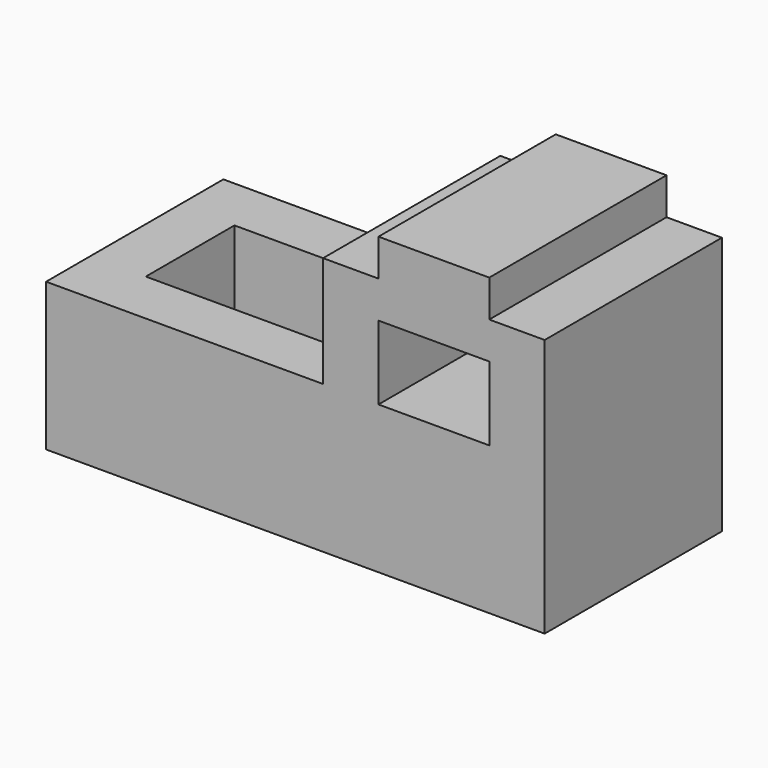
from build123d import *

# Parameters (mm, degrees)
F1_DEPTH = 1219.2
F2_W     = 609.6
F2_H     = 406.4
F3_DEPTH = 1219.201
F4_W     = 1219.2
F4_H     = 609.6
F5_DEPTH = 609.6


with BuildPart() as f1:
    # F0 (on Front) → F1 (new body)
    with BuildSketch(Plane.XZ):
        Polygon((-376.145542, 668.366442), (-376.145542, -144.433558), (2367.054458, -144.433558), (2367.054458, 1277.966442), (2062.254458, 1277.966442), (2062.254458, 1481.166442), (1452.654458, 1481.166442), (1452.654458, 1277.966442), (1147.854458, 1277.966442), (1147.854458, 668.366442), align=None)
    extrude(amount=F1_DEPTH)

    # F2 (on face) → F3 (cut, through all)
    with BuildSketch(Plane.XZ.offset(1219.2)):
        with Locations((1757.454458, 871.566442)):
            Rectangle(F2_W, F2_H)
    extrude(amount=-F3_DEPTH, mode=Mode.SUBTRACT)

    # F4 (on face) → F5 (cut)
    with BuildSketch(Plane.XY.offset(668.366442)):
        with Locations((538.254458, -609.6)):
            Rectangle(F4_W, F4_H)
    extrude(amount=-F5_DEPTH, mode=Mode.SUBTRACT)


solid = f1.part
